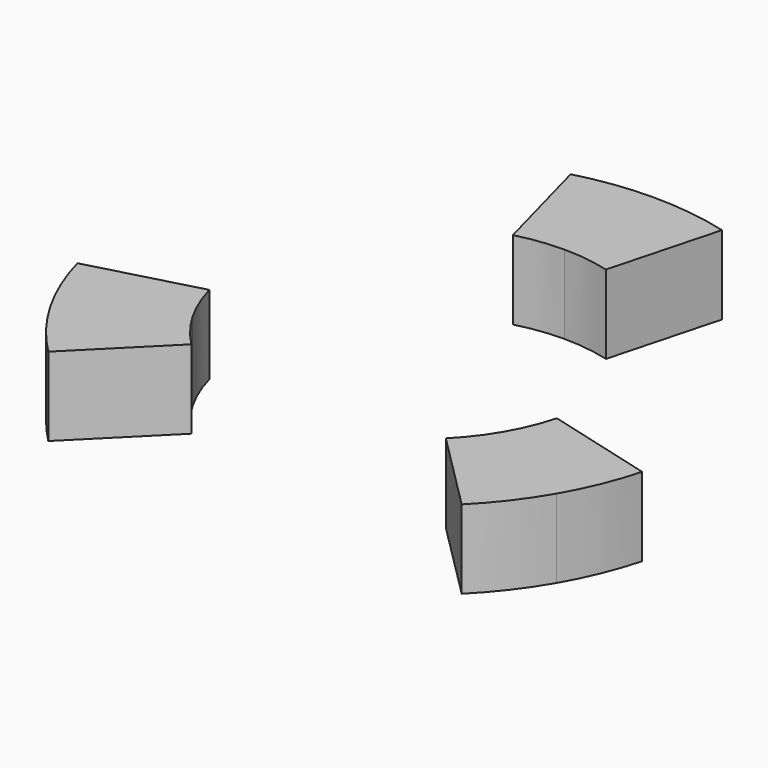
from build123d import *

# Parameters (mm, degrees)
F1_DEPTH = 14
F2_DEPTH = 14


with BuildPart() as f1:
    # F0 (on Top) → F1 (new body)
    with BuildSketch(Plane.XY):
        with BuildLine():
            Line((8.2822094433, 30.9096264413), (13.4585903453, 50.228142967))
            ThreePointArc((13.4585903453, 50.228142967), (6.7873619954, 51.5551327914), (0, 52))
            Line((0, 52), (0, 32))
            ThreePointArc((0, 32), (4.176838151, 31.726235564), (8.2822094433, 30.9096264413))
        make_face()
        with BuildLine():
            Line((0, 32), (0, 52))
            ThreePointArc((0, 52), (-6.7873619954, 51.5551327914), (-13.4585903453, 50.228142967))
            Line((-13.4585903453, 50.228142967), (-8.2822094433, 30.9096264413))
            ThreePointArc((-8.2822094433, 30.9096264413), (-4.176838151, 31.726235564), (0, 32))
        make_face()
    extrude(amount=F1_DEPTH)

    # F0 (on Top) → F2, piece 2 (join)
    with BuildSketch(Plane.XY):
        with BuildLine():
            Line((0, 32), (0, 52))
            ThreePointArc((0, 52), (-6.7873619954, 51.5551327914), (-13.4585903453, 50.228142967))
            Line((-13.4585903453, 50.228142967), (-8.2822094433, 30.9096264413))
            ThreePointArc((-8.2822094433, 30.9096264413), (-4.176838151, 31.726235564), (0, 32))
        make_face()
        with BuildLine():
            Line((8.2822094433, 30.9096264413), (13.4585903453, 50.228142967))
            ThreePointArc((13.4585903453, 50.228142967), (6.7873619954, 51.5551327914), (0, 52))
            Line((0, 52), (0, 32))
            ThreePointArc((0, 32), (4.176838151, 31.726235564), (8.2822094433, 30.9096264413))
        make_face()
    extrude(amount=F2_DEPTH)


with BuildPart() as f2:
    # F0 (on Top) → F2 (new body)
    with BuildSketch(Plane.XY):
        with BuildLine():
            Line((-30.9096264413, -8.2822094433), (-50.228142967, -13.4585903453))
            ThreePointArc((-50.228142967, -13.4585903453), (-48.0417356906, -19.899538483), (-45.0333209968, -26))
            Line((-45.0333209968, -26), (-27.7128129211, -16))
            ThreePointArc((-27.7128129211, -16), (-29.5641450404, -12.2458698357), (-30.9096264413, -8.2822094433))
        make_face()
        with BuildLine():
            ThreePointArc((-45.0333209968, -26), (-41.2543736951, -31.6555943085), (-36.7695526217, -36.7695526217))
            Line((-36.7695526217, -36.7695526217), (-22.627416998, -22.627416998))
            ThreePointArc((-22.627416998, -22.627416998), (-25.3873068893, -19.4803657283), (-27.7128129211, -16))
            Line((-27.7128129211, -16), (-45.0333209968, -26))
        make_face()
    extrude(amount=F2_DEPTH)


with BuildPart() as f2b:
    # F0 (on Top) → F2, piece 3 (new body)
    with BuildSketch(Plane.XY):
        with BuildLine():
            ThreePointArc((45.0333209968, -26), (48.0417356906, -19.899538483), (50.228142967, -13.4585903453))
            Line((50.228142967, -13.4585903453), (30.9096264413, -8.2822094433))
            ThreePointArc((30.9096264413, -8.2822094433), (29.5641450404, -12.2458698357), (27.7128129211, -16))
            Line((27.7128129211, -16), (45.0333209968, -26))
        make_face()
        with BuildLine():
            ThreePointArc((36.7695526217, -36.7695526217), (41.2543736951, -31.6555943085), (45.0333209968, -26))
            Line((45.0333209968, -26), (27.7128129211, -16))
            ThreePointArc((27.7128129211, -16), (25.3873068893, -19.4803657283), (22.627416998, -22.627416998))
            Line((22.627416998, -22.627416998), (36.7695526217, -36.7695526217))
        make_face()
    extrude(amount=F2_DEPTH)


solid = Compound([f1.part, f2.part, f2b.part])
